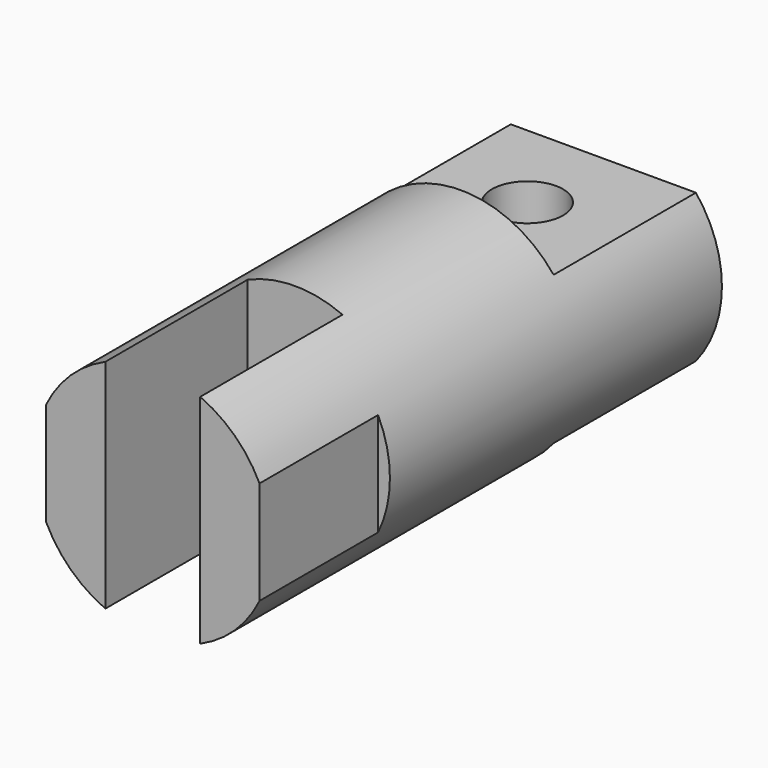
from build123d import *

# Parameters (mm, degrees)
F0_R      = 20
F1_DEPTH  = 47.5
F3_DEPTH  = 30
F5_DEPTH  = 25
F7_DEPTH  = 30
F8_R      = 6
F9_DEPTH  = 25
F10_DEPTH = 57.501


with BuildPart() as f1:
    # F0 (on Front) → F1 (new body, symmetric)
    with BuildSketch(Plane.XZ):
        Circle(F0_R)
    extrude(amount=F1_DEPTH, both=True)

    # F2 (on face) → F3 (cut)
    with BuildSketch(Plane.XZ.offset(47.5)):
        with BuildLine():
            ThreePointArc((8, 18.3303027798), (0, 20), (-8, 18.3303027798))
            Line((-8, 18.3303027798), (-8, -18.3303027798))
            ThreePointArc((-8, -18.3303027798), (0, -20), (8, -18.3303027798))
            Line((8, -18.3303027798), (8, 18.3303027798))
        make_face()
    extrude(amount=-F3_DEPTH, mode=Mode.SUBTRACT)

    # F4 (on face) → F5 (cut)
    with BuildSketch(Plane.XZ.offset(47.5)):
        with BuildLine():
            Line((-18, -8.7177978871), (-18, 8.7177978871))
            ThreePointArc((-18, 8.7177978871), (-20, 0), (-18, -8.7177978871))
        make_face()
        with BuildLine():
            ThreePointArc((20, 0), (19.4935886896, 4.472135955), (18, 8.7177978871))
            Line((18, 8.7177978871), (18, -8.7177978871))
            ThreePointArc((18, -8.7177978871), (19.4935886896, -4.472135955), (20, 0))
        make_face()
    extrude(amount=-F5_DEPTH, mode=Mode.SUBTRACT)

    # F6 (on face) → F7 (cut)
    with BuildSketch(Plane(origin=(0, 47.5, 0), x_dir=(-1, 0, 0), z_dir=(0, 1, 0))):
        with BuildLine():
            Line((-15.612494996, 12.5), (15.612494996, 12.5))
            ThreePointArc((15.612494996, 12.5), (0, 20), (-15.612494996, 12.5))
        make_face()
        with BuildLine():
            Line((15.612494996, -12.5), (-15.612494996, -12.5))
            ThreePointArc((-15.612494996, -12.5), (0, -20), (15.612494996, -12.5))
        make_face()
    extrude(amount=-F7_DEPTH, mode=Mode.SUBTRACT)

    # F8 (on face) → F9 (join)
    with BuildSketch(Plane.XY.offset(12.5)):
        with Locations((0, 31.5)):
            Circle(F8_R)
    extrude(amount=F9_DEPTH)

    # F10 (cut, through all): a face of the model
    f10_faces = [f1.faces().sort_by_distance(p)[0] for p in [
        (0, 31.5, 37.5),
    ]]
    extrude(f10_faces, amount=-F10_DEPTH, mode=Mode.SUBTRACT)


solid = f1.part
